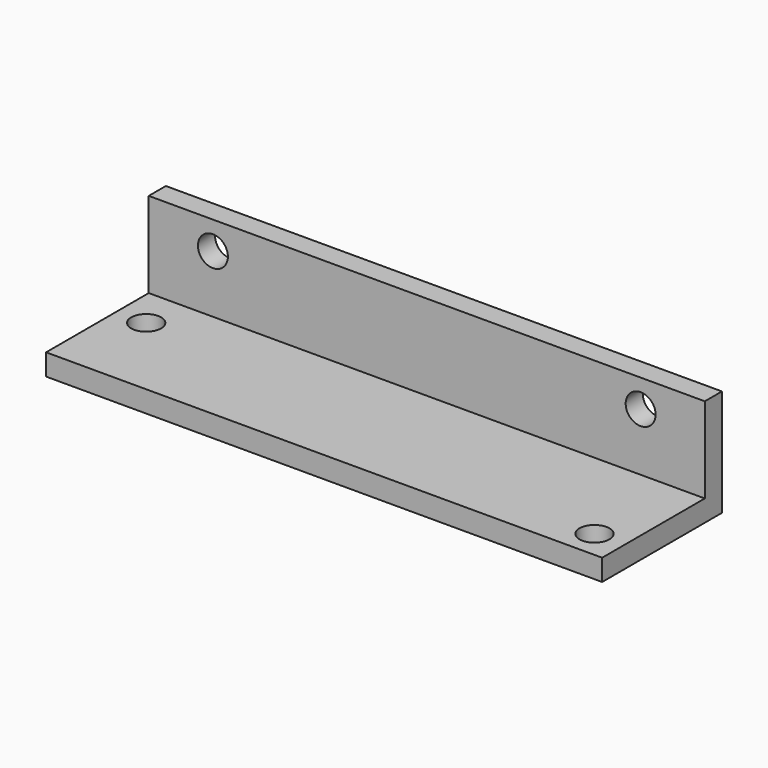
from build123d import *

# Parameters (mm, degrees)
F1_DEPTH = 65
F2_R     = 1.75
F3_DEPTH = 2.501
F4_R     = 1.75
F5_DEPTH = 2.501


with BuildPart() as f1:
    # F0 (on Right) → F1 (new body)
    with BuildSketch(Plane.YZ):
        Polygon((-17.5, 0), (0, 0), (0, 12.5), (-2.5, 12.5), (-2.5, 2.5), (-17.5, 2.5), align=None)
    extrude(amount=F1_DEPTH)

    # F2 (on face) → F3 (cut, through all)
    with BuildSketch(Plane.XZ.offset(2.5)):
        with Locations((7.5, 9.25)):
            Circle(F2_R)
        with Locations((57.5, 9.25)):
            Circle(F2_R)
    extrude(amount=-F3_DEPTH, mode=Mode.SUBTRACT)

    # F4 (on face) → F5 (cut, through all)
    with BuildSketch(Plane.XY.offset(2.5)):
        with Locations((3.5, -7.25)):
            Circle(F4_R)
        with Locations((61.5, -14.25)):
            Circle(F4_R)
    extrude(amount=-F5_DEPTH, mode=Mode.SUBTRACT)


solid = f1.part
